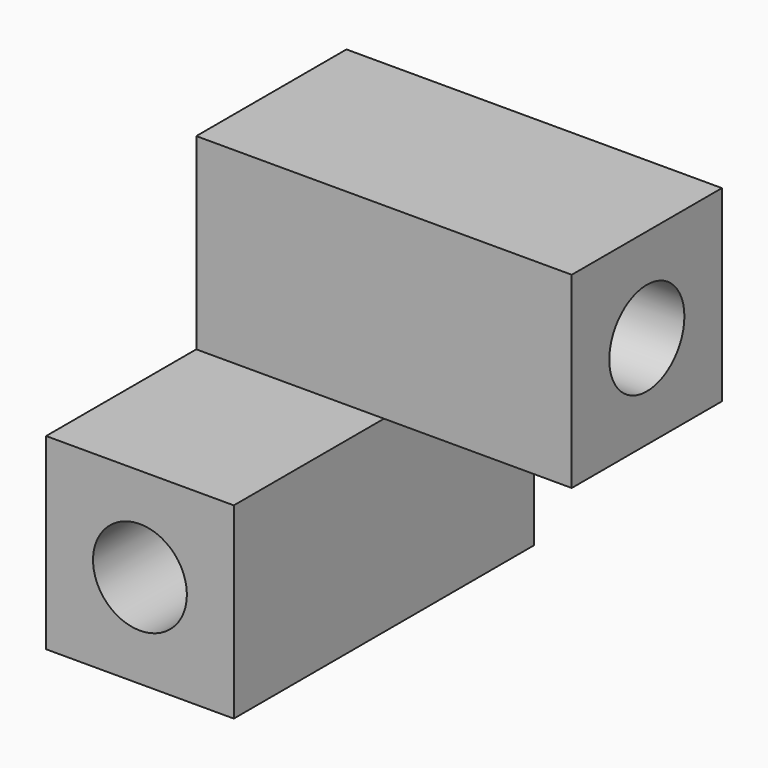
from build123d import *

# Parameters (mm, degrees)
F0_W     = 25.4
F0_H     = 50.8
F1_DEPTH = 12.7
F3_W     = 25.4
F3_H     = 25.4
F3_R     = 6.35
F4_DEPTH = 25.4
F2_W     = 25.4
F2_H     = 25.4
F2_R     = 6.35
F5_DEPTH = 25.4


with BuildPart() as f1:
    # F0 (on Front) → F1 (new body, symmetric)
    with BuildSketch(Plane.XZ):
        Rectangle(F0_W, F0_H)
    extrude(amount=F1_DEPTH, both=True)

    # F3 (on face) → F4 (join)
    with BuildSketch(Plane.YZ.offset(12.7)):
        with Locations((0, 12.7)):
            Rectangle(F3_W, F3_H)
        with Locations((0, 12.7)):
            Circle(F3_R, mode=Mode.SUBTRACT)
    extrude(amount=F4_DEPTH)

    # F2 (on face) → F5 (join)
    with BuildSketch(Plane.XZ.offset(12.7)):
        with Locations((0, -12.7)):
            Rectangle(F2_W, F2_H)
        with Locations((0, -12.7)):
            Circle(F2_R, mode=Mode.SUBTRACT)
    extrude(amount=F5_DEPTH)


solid = f1.part
